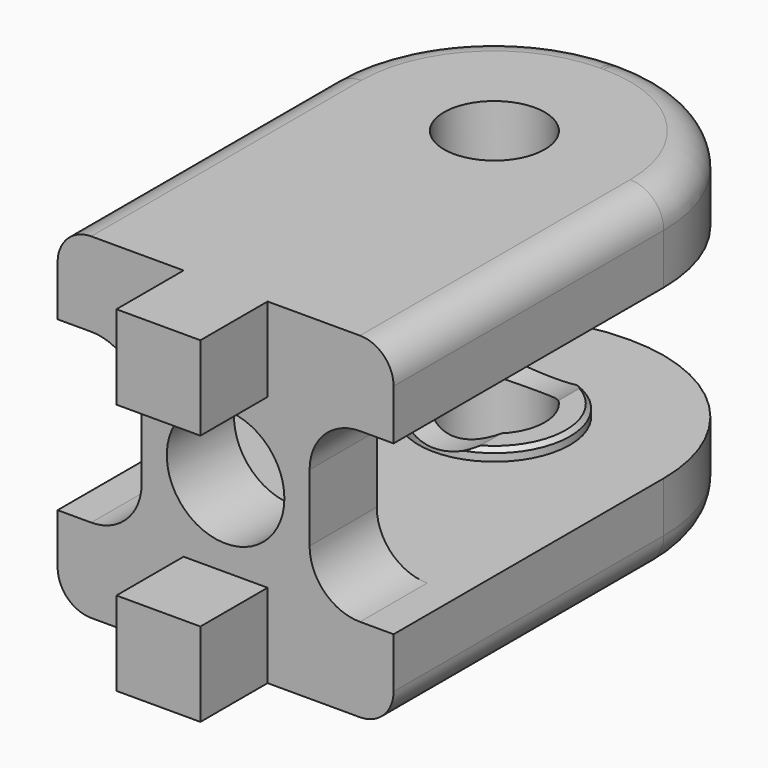
from build123d import *

# Parameters (mm, degrees)
CYLINDER007_R         = 4.8
CYLINDER007_DEPTH     = 15
BOX007_W              = 11
BOX007_H              = 7
BOX007_DEPTH          = 10
FILLET_R              = 3
ARRAY_COUNT           = 2
ARRAY_ANGLE           = 180
ARRAY_PLACEMENT_ANGLE = 90
CYLINDER004_R         = 3
CYLINDER004_DEPTH     = 30
CYLINDER_R            = 3.5
CYLINDER_DEPTH        = 15
CYLINDER006_R         = 4.5
CYLINDER006_DEPTH     = 4
CYLINDER005_R         = 4.5
CYLINDER005_DEPTH     = 4
BOX001_W              = 5
BOX001_H              = 10
BOX001_DEPTH          = 5
BOX002_W              = 20
BOX002_H              = 25
BOX002_DEPTH          = 5
BOX_W                 = 20
BOX_H                 = 5
BOX_DEPTH             = 20
CHAMFER_SIZE          = 0.25
CHAMFER001_SIZE       = 0.25
CHAMFER002_SIZE       = 0.25
FILLET001_R           = 9.9
FILLET002_R           = 2


with BuildPart() as cilindro005:
    # Cylinder007 → Cylinder007 (new body)
    with BuildSketch(Plane.XZ.offset(-23)):
        Circle(CYLINDER007_R)
    extrude(amount=CYLINDER007_DEPTH)


with BuildPart() as array:
    # Box007 → Box007 (new body)
    with BuildSketch(Plane(origin=(10, 5, -5), x_dir=(1, 0, 0), z_dir=(0, 0, 1))):
        with Locations((5.5, 3.5)):
            Rectangle(BOX007_W, BOX007_H)
    extrude(amount=BOX007_DEPTH)


with BuildPart() as array_1:
    # BaseFeature placement: moved
    add(array.part.moved(Location((-10, -5, 5))))

    # Fillet
    fillet_edges = [array_1.edges().sort_by_distance(p)[0] for p in [
        (5.5, 0, 10),
        (5.5, 0, 0),
    ]]
    fillet(fillet_edges, radius=FILLET_R)


with BuildPart() as array_2:
    # Body placement: moved
    add(array_1.part.moved(Location((-5, 5, 0))))

    # Array: Array ×2 about axis
    array_axis = Axis((0, 0, 0), (0, 0, 1))


with BuildPart() as array_3:
    add(array_2.part)
    for i in range(1, ARRAY_COUNT):
        add(array_2.part.rotate(array_axis, i * ARRAY_ANGLE / (ARRAY_COUNT - 1)))


with BuildPart() as array_4:
    # Array placement: moved
    add(array_3.part.moved(Location((0, -3, -5))).rotate(Axis((0, -3, -5), (0, 0, 1)), ARRAY_PLACEMENT_ANGLE))


with BuildPart() as cilindro004:
    # Cylinder004 → Cylinder004 (new body)
    with BuildSketch(Plane(origin=(0, 15, -15), x_dir=(1, 0, 0), z_dir=(0, 0, 1))):
        Circle(CYLINDER004_R)
    extrude(amount=CYLINDER004_DEPTH)


with BuildPart() as cilindro:
    # Cylinder → Cylinder (new body)
    with BuildSketch(Plane.XZ.offset(-5)):
        Circle(CYLINDER_R)
    extrude(amount=CYLINDER_DEPTH)


with BuildPart() as obj1:
    # Cylinder006 → Cylinder006 (new body)
    with BuildSketch(Plane.XY.offset(4.3)):
        Circle(CYLINDER006_R)
    extrude(amount=CYLINDER006_DEPTH)


with BuildPart() as fusion003:
    # Cylinder005 → Cylinder005 (new body)
    with BuildSketch(Plane.XY.offset(-8.3)):
        Circle(CYLINDER005_R)
    extrude(amount=CYLINDER005_DEPTH)

    # Fusion003: union obj1
    add(obj1.part)


with BuildPart() as fusion003_1:
    # Fusion003 placement: moved
    add(fusion003.part.moved(Location((0, 15, 0))))


with BuildPart() as pin0:
    # Box001 → Box001 (new body)
    with BuildSketch(Plane(origin=(-2.5, -10, 5), x_dir=(1, 0, 0), z_dir=(0, 0, 1))):
        with Locations((2.5, 5)):
            Rectangle(BOX001_W, BOX001_H)
    extrude(amount=BOX001_DEPTH)


with BuildPart() as pin001:
    # Clone base: copy of pin0
    add(pin0.part)


with BuildPart() as pin001_1:
    # Clone placement: moved
    add(pin001.part.moved(Location((0, 0, -15))))


with BuildPart() as pared1:
    # Box002 → Box002 (new body)
    with BuildSketch(Plane(origin=(-10, 0, 5), x_dir=(1, 0, 0), z_dir=(0, 0, 1))):
        with Locations((10, 12.5)):
            Rectangle(BOX002_W, BOX002_H)
    extrude(amount=BOX002_DEPTH)


with BuildPart() as pared002:
    # Clone001 base: copy of pared1
    add(pared1.part)


with BuildPart() as pared002_1:
    # Clone001 placement: moved
    add(pared002.part.moved(Location((0, 0, -15))))


with BuildPart() as fillet002:
    # Box → Box (new body)
    with BuildSketch(Plane(origin=(-10, -5, -10), x_dir=(1, 0, 0), z_dir=(0, 0, 1))):
        with Locations((10, 2.5)):
            Rectangle(BOX_W, BOX_H)
    extrude(amount=BOX_DEPTH)

    # Fusion: union pin0, pin001, pared1, pared002
    add(pin0.part)
    add(pin001_1.part)
    add(pared1.part)
    add(pared002_1.part)

    # Fusion004: union Fusion003
    add(fusion003_1.part)

    # Cut001: cut Cilindro
    add(cilindro.part, mode=Mode.SUBTRACT)

    # Cut002: cut Cilindro004
    add(cilindro004.part, mode=Mode.SUBTRACT)

    # Cut003: cut Array
    add(array_4.part, mode=Mode.SUBTRACT)

    # Cut004: cut Cilindro005
    add(cilindro005.part, mode=Mode.SUBTRACT)

    # Chamfer
    chamfer_edges = [fillet002.edges().sort_by_distance(p)[0] for p in [
        (3.863213, 17.307723, 4.3),
        (3.863213, 12.692277, 4.3),
    ]]
    chamfer(chamfer_edges, length=CHAMFER_SIZE)

    # Chamfer001
    chamfer001_edges = [fillet002.edges().sort_by_distance(p)[0] for p in [
        (-4.5, 15, 4.3),
    ]]
    chamfer(chamfer001_edges, length=CHAMFER001_SIZE)

    # Chamfer002
    chamfer002_edges = [fillet002.edges().sort_by_distance(p)[0] for p in [
        (3.863213, 17.307723, -4.3),
        (-4.5, 15, -4.3),
        (3.863213, 12.692277, -4.3),
    ]]
    chamfer(chamfer002_edges, length=CHAMFER002_SIZE)

    # Fillet001
    fillet001_edges = [fillet002.edges().sort_by_distance(p)[0] for p in [
        (-10, 25, -7.5),
        (10, 25, -7.5),
        (-10, 25, 7.5),
        (10, 25, 7.5),
    ]]
    fillet(fillet001_edges, radius=FILLET001_R)

    # Fillet002
    fillet002_edges = [fillet002.edges().sort_by_distance(p)[0] for p in [
        (-10, 5.05, -10),
        (-10, 5.05, 10),
    ]]
    fillet(fillet002_edges, radius=FILLET002_R)


solid = fillet002.part
